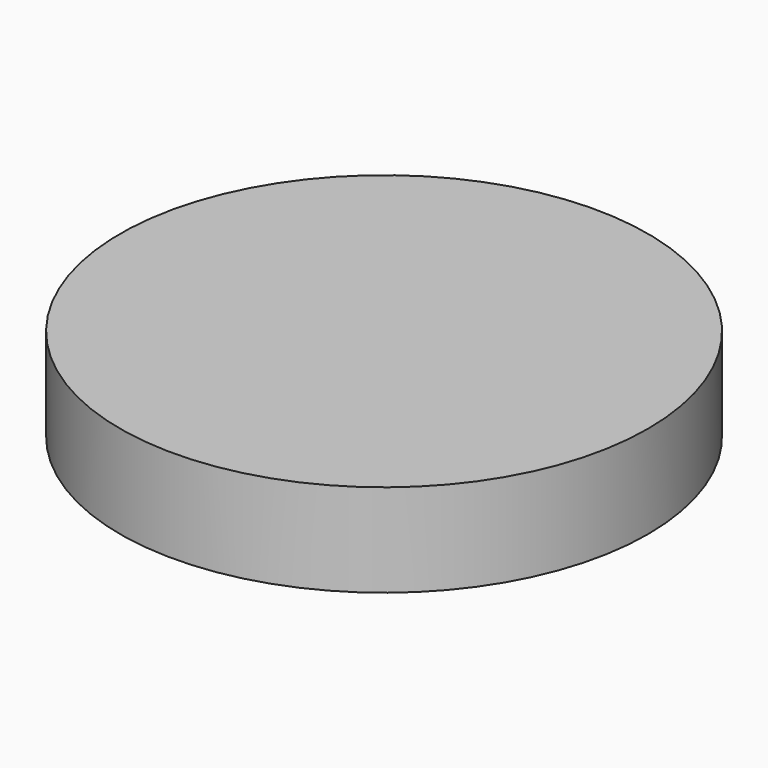
from build123d import *

# Parameters (mm, degrees)
F1_R     = 28.434676
F2_DEPTH = 10
F3_DEPTH = 8


with BuildPart() as f2:
    # F1 (on Top) → F2 (new body)
    with BuildSketch(Plane.XY):
        Circle(F1_R)
    extrude(amount=F2_DEPTH)

    # F0 (on Top) → F3 (cut)
    with BuildSketch(Plane.XY):
        Polygon((-17.364958, 7.356322), (-17.232909, 7.654685), (-16.881704, 8.45762), (-15.524421, 10.731926), (-13.289539, 13.42287), (-10.598709, 15.657751), (-8.324306, 17.015878), (-7.521533, 17.367132), (-7.223008, 17.499197), (-4.087684, 18.495686), (-3.761253, 18.562368), (-3.761253, 26.192278), (-4.083303, 26.146526), (-7.216843, 25.450184), (-7.521533, 25.355921), (-8.310191, 25.121806), (-10.614544, 24.219579), (-13.511356, 22.718842), (-16.184583, 20.883562), (-18.606935, 18.740996), (-20.749388, 16.318725), (-22.584635, 13.645466), (-24.085421, 10.747988), (-24.987648, 8.443342), (-25.22178, 7.654685), (-25.315961, 7.350319), (-26.012222, 4.216617), (-26.05799, 3.894567), (-18.428258, 3.894567), (-18.36135, 4.220998), align=None)
        Polygon((16.879968, 8.45762), (17.232033, 7.654685), (17.363124, 7.356322), (18.360425, 4.220998), (18.427431, 3.894567), (26.05799, 3.894567), (26.011265, 4.216617), (25.314923, 7.350319), (25.221634, 7.654685), (24.986707, 8.443342), (24.08448, 10.747988), (22.583743, 13.645466), (20.748625, 16.318725), (18.606059, 18.740996), (16.183626, 20.883562), (13.510529, 22.718842), (10.613701, 24.219579), (8.309379, 25.121806), (7.521533, 25.355921), (7.216031, 25.450184), (4.081519, 26.146526), (3.76028, 26.192278), (3.76028, 18.562368), (4.085899, 18.495686), (7.222034, 17.499197), (7.521533, 17.367132), (8.323332, 17.015878), (10.597801, 15.657751), (13.288582, 13.42287), (15.52249, 10.731926), align=None)
        Polygon((-8.28196, -24.853474), (2.331578, -3.625992), (14.566724, -3.625992), (14.643302, -3.325033), (15.042903, -0.731111), (15.042903, 0.133314), (15.042903, 1.074317), (14.643302, 3.595231), (14.566724, 3.895378), (-14.56674, 3.895378), (-14.64421, 3.595231), (-15.042936, 0.999361), (-15.042936, 0.133314), (-15.042936, -0.805904), (-14.64421, -3.325033), (-14.56674, -3.625992), (-6.08407, -3.625992), (-11.600391, -14.64997), (-11.860075, -14.446648), (-13.086218, -13.35429), (-14.219915, -12.161601), (-14.432955, -11.908975), (-14.665318, -11.630827), (-16.659027, -8.592378), (-16.823605, -8.264811), (-16.859704, -8.191803), (-17.202116, -7.460416), (-17.232909, -7.388219), (-17.364958, -7.088882), (-18.36135, -3.951774), (-18.428258, -3.625992), (-26.05799, -3.625992), (-26.012222, -3.947393), (-25.316853, -7.082717), (-25.222672, -7.388219), (-24.986756, -8.185637), (-23.372433, -11.967073), (-21.228228, -15.431619), (-20.726496, -16.071517), (-20.519653, -16.338226), (-19.423791, -17.618071), (-18.248689, -18.817801), (-18.001351, -19.0458), (-17.76808, -19.266724), (-15.273546, -21.293855), (-15.009482, -21.478697), (-14.498079, -21.835208), (-11.784357, -23.401118), (-8.885825, -24.652781), align=None)
        Polygon((17.363124, -7.088882), (17.232033, -7.388219), (16.879968, -8.190018), (15.52249, -10.463659), (13.288582, -13.154473), (10.597801, -15.389355), (8.323332, -16.746654), (7.521533, -17.098735), (7.222034, -17.229908), (4.085899, -18.2263), (3.76028, -18.293192), (3.728643, -18.299373), (3.407404, -18.355704), (3.376578, -18.360101), (-0.543186, -26.183484), (-0.497271, -26.185237), (-0.124926, -26.192278), (0, -26.192278), (0.940192, -26.192278), (3.453156, -25.967833), (3.76028, -25.923816), (4.081519, -25.877156), (7.216031, -25.181787), (7.521533, -25.087606), (8.309379, -24.852582), (10.613701, -23.950371), (13.510529, -22.449585), (16.183626, -20.614338), (18.606059, -18.471885), (20.748625, -16.049533), (22.583743, -13.376306), (24.08448, -10.48037), (24.986707, -8.175903), (25.221634, -7.388219), (25.314923, -7.082717), (26.011265, -3.948367), (26.05799, -3.626966), (18.427431, -3.626966), (18.360425, -3.952747), align=None)
    extrude(amount=F3_DEPTH, mode=Mode.SUBTRACT)


solid = f2.part
